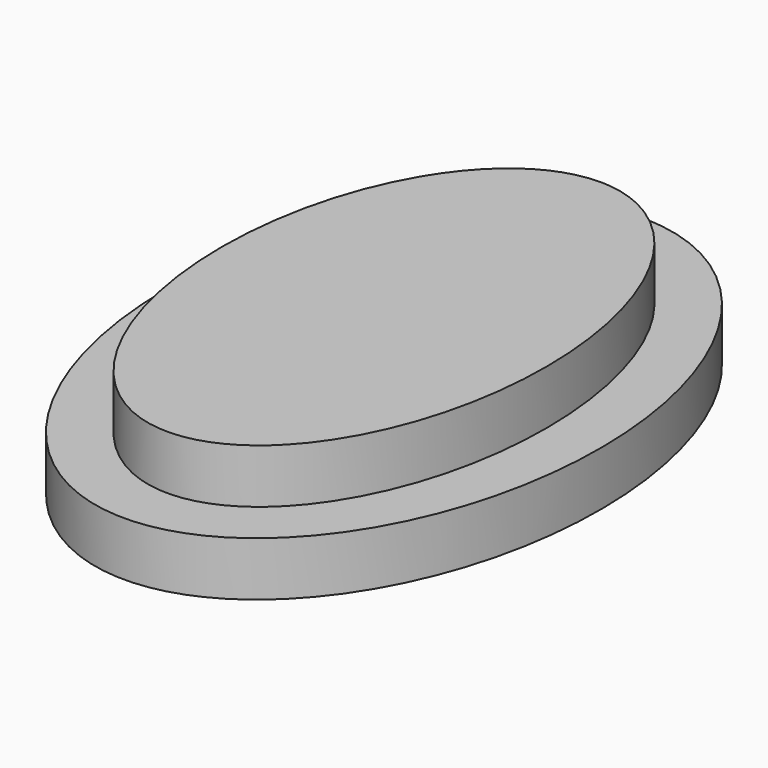
from build123d import *

# Parameters (mm, degrees)
F1_DEPTH = 5
F3_DEPTH = 5


with BuildPart() as f1:
    # F0 (on Top) → F1 (new body)
    with BuildSketch(Plane.XY):
        with BuildLine():
            add(Edge.make_bspline(
                [(0, 30), (-34.6410161514, 30), (-17.3205080757, -15), (0, -60), (17.3205080757, -15), (34.6410161514, 30), (0, 30)],
                knots=[0, 0, 0, 2.0943951024, 2.0943951024, 4.1887902048, 4.1887902048, 6.2831853072, 6.2831853072, 6.2831853072], degree=2, weights=[1, 0.5, 1, 0.5, 1, 0.5, 1]))
        make_face()
    extrude(amount=F1_DEPTH)

    # F2 (on face) → F3 (join)
    with BuildSketch(Plane.XY.offset(5)):
        with BuildLine():
            add(Edge.make_bspline(
                [(0, 25), (-25.9807621135, 25), (-12.9903810568, -12.5), (0, -50), (12.9903810568, -12.5), (25.9807621135, 25), (0, 25)],
                knots=[0, 0, 0, 2.0943951024, 2.0943951024, 4.1887902048, 4.1887902048, 6.2831853072, 6.2831853072, 6.2831853072], degree=2, weights=[1, 0.5, 1, 0.5, 1, 0.5, 1]))
        make_face()
    extrude(amount=F3_DEPTH)


solid = f1.part
